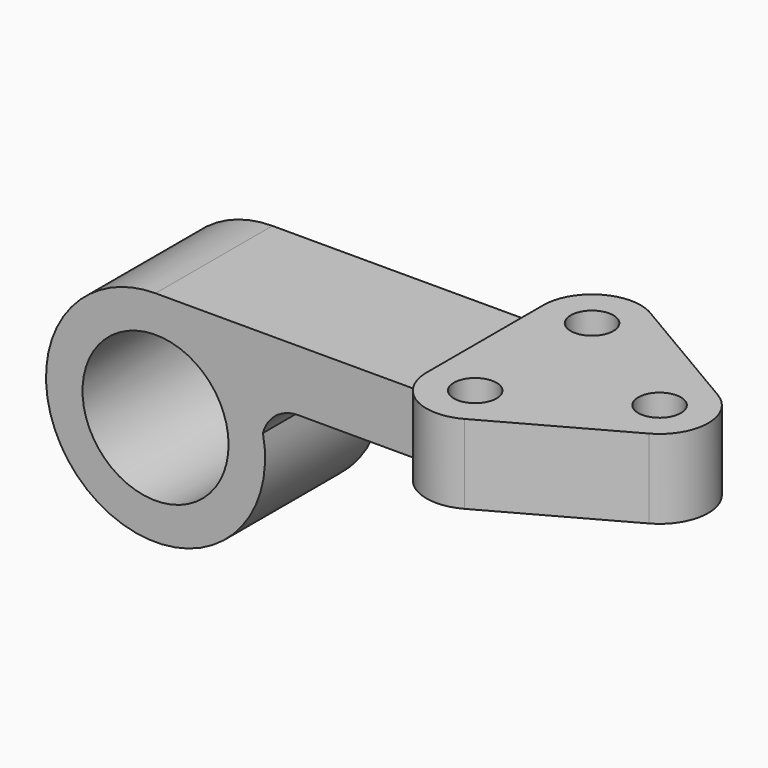
from build123d import *

# Parameters (mm, degrees)
F0_R     = 5.5626
F1_DEPTH = 20.6502
F2_R     = 19.05
F3_DEPTH = 38.1


with BuildPart() as f1:
    # F0 (on Top) → F1 (new body)
    with BuildSketch(Plane.XY):
        with BuildLine():
            Line((0, 38.1), (0, 0))
            ThreePointArc((0, 0), (6.247883, -10.93893), (18.844124, -11.114843))
            Line((18.844124, -11.114843), (52.188654, 7.317527))
            ThreePointArc((52.188654, 7.317527), (58.748963, 18.258285), (52.496517, 29.377852))
            Line((52.496517, 29.377852), (19.66947, 48.716802))
            ThreePointArc((19.66947, 48.716802), (6.667682, 49.275918), (0, 38.1))
        make_face()
        with Locations((12.7, 0)):
            Circle(F0_R, mode=Mode.SUBTRACT)
        with Locations((46.0502, 18.435503)):
            Circle(F0_R, mode=Mode.SUBTRACT)
        with Locations((12.7, 38.1)):
            Circle(F0_R, mode=Mode.SUBTRACT)
    extrude(amount=F1_DEPTH)

    # F2 (on Front) → F3 (join)
    with BuildSketch(Plane.XZ):
        with BuildLine():
            Line((0, 0), (0, 15.875))
            Line((0, 15.875), (-70.678988, 15.875))
            ThreePointArc((-70.678988, 15.875), (-81.204468, 13.86586), (-90.249832, 8.120968))
            ThreePointArc((-90.249832, 8.120968), (-79.38338, -39.916983), (-42.658184, -7.099542))
            ThreePointArc((-42.658184, -7.099542), (-39.261941, -1.980859), (-33.44717, 0))
            Line((-33.44717, 0), (0, 0))
        make_face()
        with Locations((-70.678988, -12.7)):
            Circle(F2_R, mode=Mode.SUBTRACT)
    extrude(amount=-F3_DEPTH)


solid = f1.part
